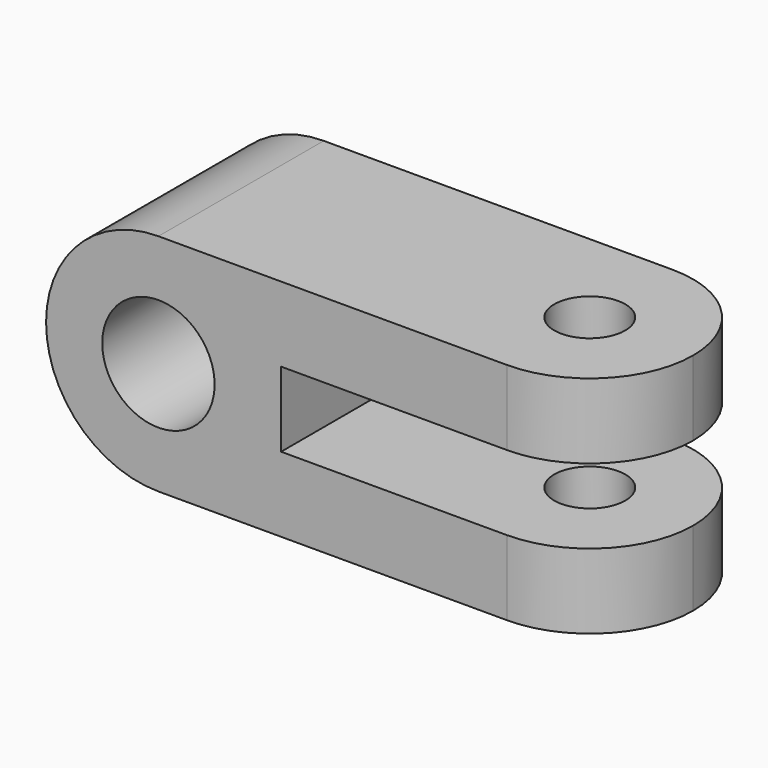
from build123d import *

# Parameters (mm, degrees)
F0_W     = 110.998
F0_H     = 40.64
F1_DEPTH = 44.196
F5_D     = 22.098
F2_R     = 6.985
F6_DEPTH = 44.197
F7_DEPTH = 44.197
F3_W     = 64.77
F3_H     = 14.732
F8_DEPTH = 40.641
F9_DEPTH = 40.641


with BuildPart() as f1:
    # F0 (on Top) → F1 (new body)
    with BuildSketch(Plane.XY):
        with Locations((55.499, 20.32)):
            Rectangle(F0_W, F0_H)
    extrude(amount=F1_DEPTH)

    # F5 (through all)
    with Locations(Plane.XZ):
        with Locations((22.098, 22.098)):
            Hole(F5_D / 2)

    # F2 (on face) → F6 (cut, through all)
    with BuildSketch(Plane.XY.offset(44.196)):
        with Locations((90.678, 20.32)):
            Circle(F2_R)
    extrude(amount=-F6_DEPTH, mode=Mode.SUBTRACT)

    # F2 (on face) → F7 (cut, through all)
    with BuildSketch(Plane.XY.offset(44.196)):
        with BuildLine():
            ThreePointArc((90.678, 40.64), (105.0464097937, 34.6884097937), (110.998, 20.32))
            Line((110.998, 20.32), (110.998, 40.64))
            Line((110.998, 40.64), (90.678, 40.64))
        make_face()
        with BuildLine():
            Line((110.998, 0), (110.998, 20.32))
            ThreePointArc((110.998, 20.32), (105.0464097937, 5.9515902063), (90.678, 0))
            Line((90.678, 0), (110.998, 0))
        make_face()
    extrude(amount=-F7_DEPTH, mode=Mode.SUBTRACT)

    # F3 (on face) → F8 (cut, through all)
    with BuildSketch(Plane.XZ):
        with Locations((78.613, 22.098)):
            Rectangle(F3_W, F3_H)
    extrude(amount=-F8_DEPTH, mode=Mode.SUBTRACT)

    # F3 (on face) → F9 (cut, through all)
    with BuildSketch(Plane.XZ):
        with BuildLine():
            ThreePointArc((0, 22.098), (6.4723544116, 37.7236457129), (22.098000176, 44.196))
            Line((22.098000176, 44.196), (0, 44.196))
            Line((0, 44.196), (0, 22.098))
        make_face()
        with BuildLine():
            Line((0, 0), (22.098, 0))
            ThreePointArc((22.098, 0), (6.4723543493, 6.4723543493), (0, 22.098))
            Line((0, 22.098), (0, 0))
        make_face()
    extrude(amount=-F9_DEPTH, mode=Mode.SUBTRACT)


solid = f1.part
